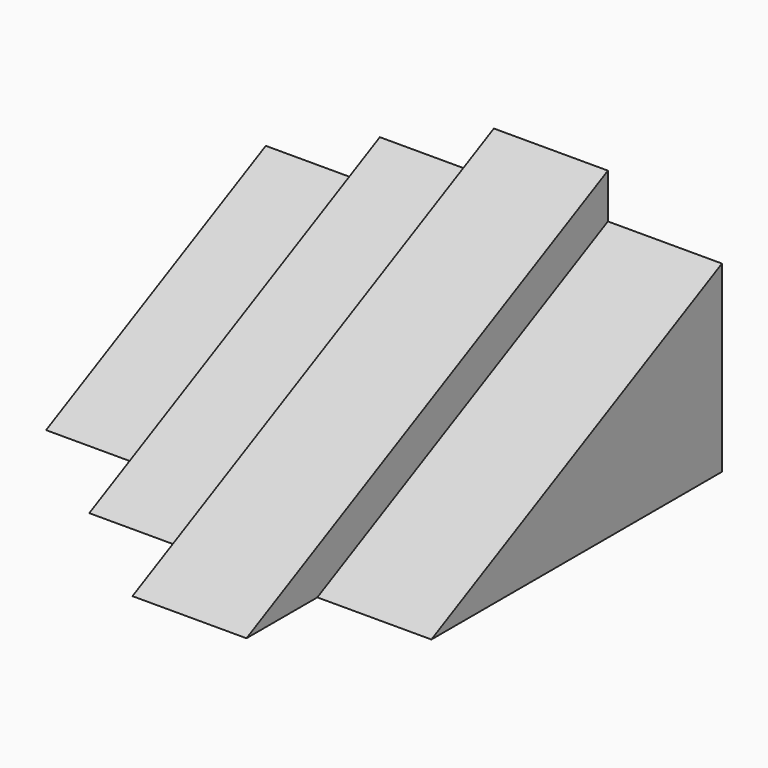
from build123d import *

# Parameters (mm, degrees)
F1_DEPTH = 25.4
F3_DEPTH = 25.4
F5_DEPTH = 25.4
F7_DEPTH = 25.4


with BuildPart() as f1:
    # F0 (on Right) → F1 (new body)
    with BuildSketch(Plane.YZ):
        Polygon((54.801482, 50.8), (-45.812084, 0), (30.387916, 0), (54.801482, 0), (54.801482, 7.009836), align=None)
    extrude(amount=-F1_DEPTH)

    # F2 (on face) → F3 (join)
    with BuildSketch(Plane(origin=(-25.4, 0, 0), x_dir=(0, -1, 0), z_dir=(-1, 0, 0))):
        Polygon((-54.801482, 40.841112), (-54.801482, 0), (26.08769, 0), align=None)
    extrude(amount=F3_DEPTH)

    # F4 (on face) → F5 (join)
    with BuildSketch(Plane(origin=(-50.8, 0, 0), x_dir=(0, -1, 0), z_dir=(-1, 0, 0))):
        Polygon((-54.801482, 0), (-34.971387, 0), (6.363296, 0), (-54.801482, 30.882224), align=None)
    extrude(amount=F5_DEPTH)

    # F6 (on face) → F7 (join)
    with BuildSketch(Plane.YZ):
        Polygon((54.801482, 40.841112), (-26.08769, 0), (23.767022, 0), (54.801482, 0), (54.801482, 10.363963), align=None)
    extrude(amount=F7_DEPTH)


solid = f1.part
